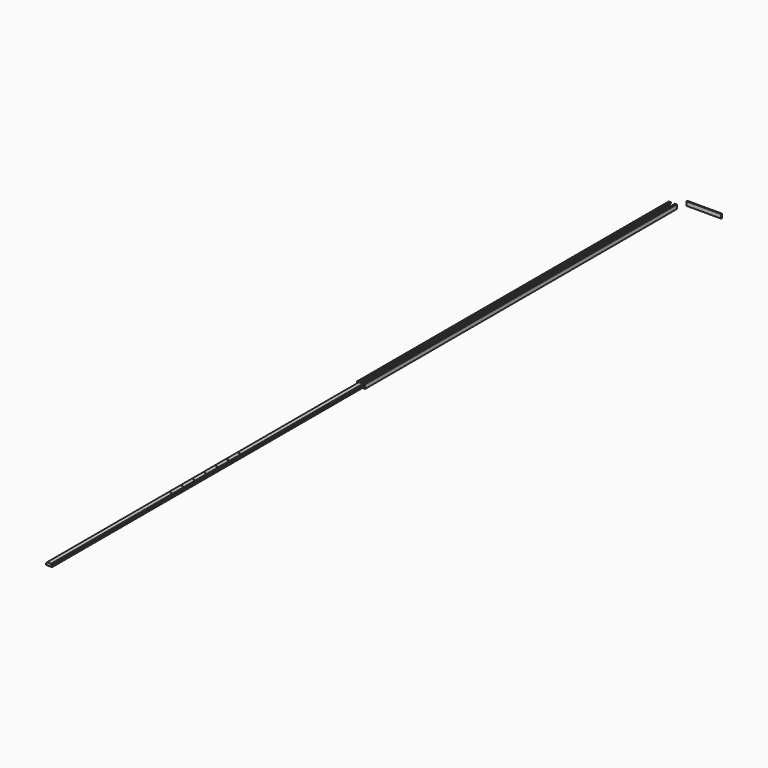
from build123d import *

# Parameters (mm, degrees)
F1_DEPTH  = 1219.2
F3_DEPTH  = 1219.2
F4_R      = 1.5875
F5_DEPTH  = 12.701
F6_R      = 1.5875
F7_DEPTH  = 3.176
F8_SIZE   = 1.27
F8_2_SIZE = 1.27
F9_W      = 107.95508
F9_H      = 12.7
F10_DEPTH = 3.175


with BuildPart() as f1:
    # F0 (on Front) → F1 (new body)
    with BuildSketch(Plane.XZ):
        Polygon((-47.642269, 20.31604), (-47.642269, 23.49104), (-53.992269, 23.49104), (-53.992269, 10.79104), (-41.292269, 10.79104), (-41.292269, 13.96604), (-50.817269, 13.96604), (-50.817269, 20.31604), align=None)
        Polygon((-41.292269, 13.96604), (-41.292269, 10.79104), (-28.592269, 10.79104), (-28.592269, 23.49104), (-34.942269, 23.49104), (-34.942269, 20.31604), (-31.767269, 20.31604), (-31.767269, 13.96604), align=None)
    extrude(amount=F1_DEPTH)

    # F6 (on face) → F7 (cut, through all)
    with BuildSketch(Plane.XY.offset(13.96604)):
        with Locations((-41.292269, -742.95)):
            Circle(F6_R)
        with Locations((-41.292269, -698.5)):
            Circle(F6_R)
        with Locations((-41.292269, -654.05)):
            Circle(F6_R)
        with Locations((-41.292269, -609.6)):
            Circle(F6_R)
        with Locations((-41.292269, -565.15)):
            Circle(F6_R)
        with Locations((-41.292269, -520.7)):
            Circle(F6_R)
        with Locations((-41.292269, -476.25)):
            Circle(F6_R)
        with Locations((-41.292269, -787.4)):
            Circle(F6_R)
        with Locations((-41.292269, -831.85)):
            Circle(F6_R)
        with Locations((-41.292269, -876.3)):
            Circle(F6_R)
        with Locations((-41.292269, -920.75)):
            Circle(F6_R)
        with Locations((-41.292269, -965.2)):
            Circle(F6_R)
        with Locations((-41.292269, -1009.65)):
            Circle(F6_R)
        with Locations((-41.292269, -1054.1)):
            Circle(F6_R)
        with Locations((-41.292269, -1098.55)):
            Circle(F6_R)
        with Locations((-41.292269, -1143)):
            Circle(F6_R)
        with Locations((-41.292269, -1187.45)):
            Circle(F6_R)
        with Locations((-41.292269, -431.8)):
            Circle(F6_R)
        with Locations((-41.292269, -387.35)):
            Circle(F6_R)
        with Locations((-41.292269, -342.9)):
            Circle(F6_R)
        with Locations((-41.292269, -298.45)):
            Circle(F6_R)
        with Locations((-41.292269, -254)):
            Circle(F6_R)
        with Locations((-41.292269, -209.55)):
            Circle(F6_R)
        with Locations((-41.292269, -165.1)):
            Circle(F6_R)
        with Locations((-41.292269, -120.65)):
            Circle(F6_R)
        with Locations((-41.292269, -76.2)):
            Circle(F6_R)
        with Locations((-41.292269, -31.75)):
            Circle(F6_R)
    extrude(amount=-F7_DEPTH, mode=Mode.SUBTRACT)

    # F8
    f8_edges = [f1.edges().sort_by_distance(p)[0] for p in [
        (-42.879769, -742.95, 13.96604),
        (-42.879769, -698.5, 13.96604),
        (-42.879769, -654.05, 13.96604),
        (-42.879769, -609.6, 13.96604),
        (-42.879769, -565.15, 13.96604),
        (-42.879769, -520.7, 13.96604),
        (-42.879769, -476.25, 13.96604),
        (-42.879769, -1187.45, 13.96604),
        (-42.879769, -1143, 13.96604),
        (-42.879769, -1098.55, 13.96604),
        (-42.879769, -1054.1, 13.96604),
        (-42.879769, -1009.65, 13.96604),
        (-42.879769, -965.2, 13.96604),
        (-42.879769, -920.75, 13.96604),
        (-42.879769, -876.3, 13.96604),
        (-42.879769, -831.85, 13.96604),
        (-42.879769, -787.4, 13.96604),
        (-42.879769, -31.75, 13.96604),
        (-42.879769, -76.2, 13.96604),
        (-42.879769, -120.65, 13.96604),
        (-42.879769, -165.1, 13.96604),
        (-42.879769, -209.55, 13.96604),
        (-42.879769, -254, 13.96604),
        (-42.879769, -342.9, 13.96604),
        (-42.879769, -298.45, 13.96604),
        (-42.879769, -431.8, 13.96604),
        (-42.879769, -387.35, 13.96604),
    ]]
    chamfer(f8_edges, length=F8_SIZE)


with BuildPart() as f3:
    # F2 (on face) → F3 (new body)
    with BuildSketch(Plane.XZ.offset(1219.2)):
        Polygon((-34.952429, 20.30588), (-34.952429, 23.49104), (-47.632109, 23.49104), (-47.632109, 20.30588), (-50.807109, 20.30588), (-50.807109, 13.9762), (-41.292269, 13.9762), (-31.777429, 13.9762), (-31.777429, 20.30588), align=None)
    extrude(amount=F3_DEPTH)

    # F4 (on face) → F5 (cut, through all)
    with BuildSketch(Plane.XY.offset(23.49104)):
        with Locations((-41.292269, -1962.15)):
            Circle(F4_R)
        with Locations((-41.292269, -1917.7)):
            Circle(F4_R)
        with Locations((-41.292269, -1873.25)):
            Circle(F4_R)
        with Locations((-41.292269, -1828.8)):
            Circle(F4_R)
        with Locations((-41.292269, -1784.35)):
            Circle(F4_R)
        with Locations((-41.292269, -1739.9)):
            Circle(F4_R)
        with Locations((-41.292269, -1695.45)):
            Circle(F4_R)
    extrude(amount=-F5_DEPTH, mode=Mode.SUBTRACT)

    # F8#2
    f8_2_edges = [f3.edges().sort_by_distance(p)[0] for p in [
        (-42.879769, -1695.45, 13.9762),
        (-50.807109, -1828.8, 13.9762),
        (-41.292269, -1219.2, 13.9762),
        (-41.292269, -2438.4, 13.9762),
        (-31.777429, -1828.8, 13.9762),
        (-42.879769, -1873.25, 13.9762),
        (-42.879769, -1962.15, 13.9762),
        (-42.879769, -1917.7, 13.9762),
        (-42.879769, -1828.8, 13.9762),
        (-42.879769, -1784.35, 13.9762),
        (-42.879769, -1739.9, 13.9762),
    ]]
    chamfer(f8_2_edges, length=F8_2_SIZE)


with BuildPart() as f10:
    # F9 (on Front) → F10 (new body)
    with BuildSketch(Plane.XZ):
        with Locations((58.135829, 37.659576)):
            Rectangle(F9_W, F9_H)
    extrude(amount=F10_DEPTH)


solid = Compound([f1.part, f3.part, f10.part])
